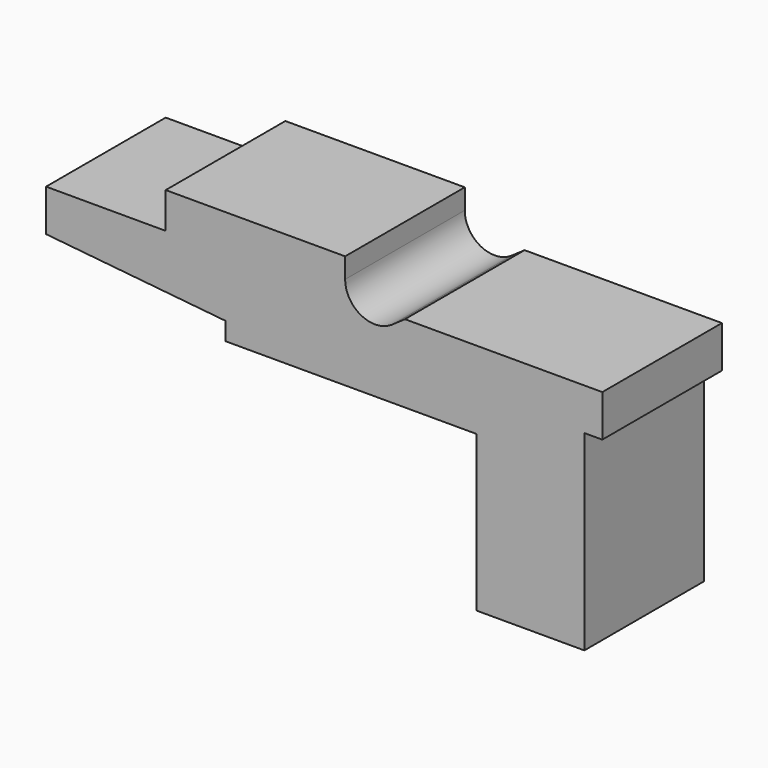
from build123d import *

# Parameters (mm, degrees)
F1_DEPTH = 25


with BuildPart() as f1:
    # F0 (on Front) → F1 (new body)
    with BuildSketch(Plane.XZ):
        with BuildLine():
            Line((-42, 3), (-42, 0))
            Line((-42, 0), (0, 0))
            Line((0, 0), (0, -26))
            Line((0, -26), (18, -26))
            Line((18, -26), (18, 6))
            Line((18, 6), (21, 6))
            Line((21, 6), (21, 13))
            Line((21, 13), (-12, 13))
            Line((-12, 13), (-14.129154, 11.50915))
            ThreePointArc((-14.129154, 11.50915), (-19.305779, 11.169856), (-21.997036, 15.604911))
            Line((-21.997036, 15.604911), (-21.997036, 19))
            Line((-21.997036, 19), (-51.997036, 19))
            Line((-51.997036, 19), (-52.000002, 12.990128))
            Line((-52.000002, 12.990128), (-72, 13))
            Line((-72, 13), (-72, 6))
            Line((-72, 6), (-42, 3))
        make_face()
    extrude(amount=F1_DEPTH)


solid = f1.part
